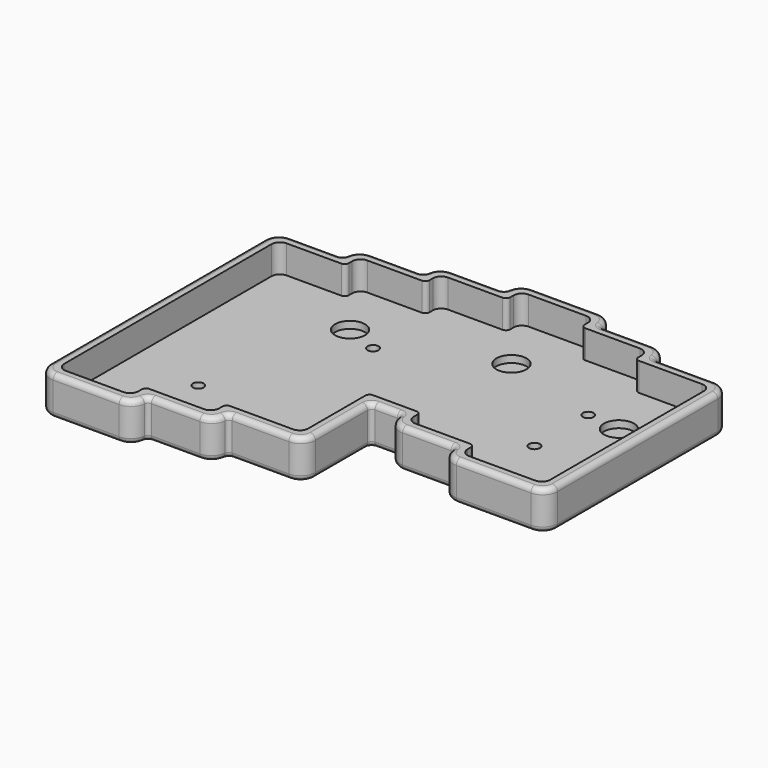
from build123d import *

# Parameters (mm, degrees)
PAD001_DEPTH    = 11
POCKET_DEPTH    = 8
POCKET001_DEPTH = 8
SKETCH003_R     = 1.55
POCKET002_DEPTH = 3
SKETCH005_R     = 3
POCKET004_DEPTH = 1.5
FILLET002_R     = 1.190625
FILLET003_R     = 2.38125
FILLET004_R     = 4.190625
FILLET005_R     = 1.5
SKETCH010_R     = 4.25
POCKET008_DEPTH = 2


with BuildPart() as part:
    # Sketch001 → Pad001 (new body)
    with BuildSketch(Plane.XY):
        Polygon((0, 0), (27.05, 0), (27.05, 4.7625), (46.1, 4.7625), (46.1, 9.525), (67.53125, 9.525), (67.53125, 33.3375), (76.2, 33.3375), (76.2, 28.575), (95.25, 28.575), (95.25, 23.8125), (124.68125, 23.8125), (124.68125, 88.9625), (103.25, 88.9625), (103.25, 93.725), (84.2, 93.725), (84.2, 98.4875), (57.15, 98.4875), (57.15, 93.725), (38.1, 93.725), (38.1, 88.9625), (19.05, 88.9625), (19.05, 84.2), (0, 84.2), align=None)
    extrude(amount=PAD001_DEPTH)

    # Sketch001 → Pocket (cut)
    with BuildSketch(Plane.XY):
        Polygon((0, 0), (27.05, 0), (27.05, 4.7625), (46.1, 4.7625), (46.1, 9.525), (67.53125, 9.525), (67.53125, 33.3375), (76.2, 33.3375), (76.2, 28.575), (95.25, 28.575), (95.25, 23.8125), (124.68125, 23.8125), (124.68125, 88.9625), (103.25, 88.9625), (103.25, 93.725), (84.2, 93.725), (84.2, 98.4875), (57.15, 98.4875), (57.15, 93.725), (38.1, 93.725), (38.1, 88.9625), (19.05, 88.9625), (19.05, 84.2), (0, 84.2), align=None)
    extrude(amount=-POCKET_DEPTH, mode=Mode.SUBTRACT)

    # Sketch002 (on Face26 of Pad001) → Pocket001 (cut)
    with BuildSketch(Plane.XY.offset(11)):
        Polygon((3, 3), (24.05, 3), (24.05, 7.7625), (43.1, 7.7625), (43.1, 12.525), (64.53125, 12.525), (64.53125, 36.3375), (79.2, 36.3375), (79.2, 31.575), (98.25, 31.575), (98.25, 26.8125), (121.68125, 26.8125), (121.68125, 85.9625), (100.25, 85.9625), (100.25, 90.725), (81.2, 90.725), (81.2, 95.4875), (60.15, 95.4875), (60.15, 90.725), (41.1, 90.725), (41.1, 85.9625), (22.05, 85.9625), (22.05, 81.2), (3, 81.2), align=None)
    extrude(amount=-POCKET001_DEPTH, mode=Mode.SUBTRACT)

    # Sketch003 (on Face51 of Pocket001) → Pocket002 (cut)
    with BuildSketch(Plane.XY.offset(3)):
        with Locations((23.05, 27.8125)):
            Circle(SKETCH003_R)
        with Locations((42.1, 65.9125)):
            Circle(SKETCH003_R)
        with Locations((99.25, 70.675)):
            Circle(SKETCH003_R)
        with Locations((99.25, 51.625)):
            Circle(SKETCH003_R)
    extrude(amount=-POCKET002_DEPTH, mode=Mode.SUBTRACT)

    # Sketch005 (on Face4 of Pocket002) → Pocket004 (cut)
    with BuildSketch(Plane(origin=(0, 0, 0), x_dir=(1, 0, 0), z_dir=(0, 0, -1))):
        with Locations((7, -7)):
            Circle(SKETCH005_R)
        with Locations((7, -77.2)):
            Circle(SKETCH005_R)
        with Locations((70.675, -91.4875)):
            Circle(SKETCH005_R)
        with Locations((117.68125, -81.9625)):
            Circle(SKETCH005_R)
        with Locations((117.68125, -30.8125)):
            Circle(SKETCH005_R)
        with Locations((60.53125, -16.525)):
            Circle(SKETCH005_R)
    extrude(amount=-POCKET004_DEPTH, mode=Mode.SUBTRACT)

    # Fillet002
    fillet002_edges = [part.edges().sort_by_distance(p)[0] for p in [
        (41.1, 85.9625, 7),
        (60.15, 90.725, 7),
        (81.2, 90.725, 7),
        (100.25, 85.9625, 7),
        (98.25, 31.575, 7),
        (79.2, 36.3375, 7),
        (64.53125, 36.3375, 7),
        (43.1, 12.525, 7),
        (24.05, 7.7625, 7),
        (27.05, 4.7625, 5.5),
        (46.1, 9.525, 5.5),
        (67.53125, 33.3375, 5.5),
        (76.2, 33.3375, 5.5),
        (95.25, 28.575, 5.5),
        (103.25, 88.9625, 5.5),
        (84.2, 93.725, 5.5),
        (57.15, 93.725, 5.5),
        (38.1, 88.9625, 5.5),
        (19.05, 84.2, 5.5),
        (22.05, 81.2, 7),
    ]]
    fillet(fillet002_edges, radius=FILLET002_R)

    # Fillet003
    fillet003_edges = [part.edges().sort_by_distance(p)[0] for p in [
        (3, 3, 7),
        (24.05, 3, 7),
        (3, 81.2, 7),
        (22.05, 85.9625, 7),
        (41.1, 90.725, 7),
        (60.15, 95.4875, 7),
        (81.2, 95.4875, 7),
        (100.25, 90.725, 7),
        (121.68125, 85.9625, 7),
        (121.68125, 26.8125, 7),
        (98.25, 26.8125, 7),
        (79.2, 31.575, 7),
        (64.53125, 12.525, 7),
        (43.1, 7.7625, 7),
    ]]
    fillet(fillet003_edges, radius=FILLET003_R)

    # Fillet004
    fillet004_edges = [part.edges().sort_by_distance(p)[0] for p in [
        (46.1, 4.7625, 5.5),
        (27.05, 0, 5.5),
        (0, 0, 5.5),
        (67.53125, 9.525, 5.5),
        (76.2, 28.575, 5.5),
        (95.25, 23.8125, 5.5),
        (124.68125, 23.8125, 5.5),
        (124.68125, 88.9625, 5.5),
        (103.25, 93.725, 5.5),
        (84.2, 98.4875, 5.5),
        (57.15, 98.4875, 5.5),
        (38.1, 93.725, 5.5),
        (19.05, 88.9625, 5.5),
        (0, 84.2, 5.5),
    ]]
    fillet(fillet004_edges, radius=FILLET004_R)

    # Fillet005
    fillet005_edges = [part.edges().sort_by_distance(p)[0] for p in [
        (67.53125, 22.93125, 11),
        (75.009375, 33.3375, 5.5),
        (13.542846, 0, 0),
    ]]
    fillet(fillet005_edges, radius=FILLET005_R)

    # Sketch010 (on Face128 of Fillet005) → Pocket008 (cut)
    with BuildSketch(Plane.XY.offset(3)):
        with Locations((18.2875, 7.75)):
            Circle(SKETCH010_R)
        with Locations((32.575, 69.6625)):
            Circle(SKETCH010_R)
        with Locations((70.675, 79.1875)):
            Circle(SKETCH010_R)
        with Locations((108.775, 69.6625)):
            Circle(SKETCH010_R)
        with Locations((108.775, 31.5625)):
            Circle(SKETCH010_R)
    extrude(amount=-POCKET008_DEPTH, mode=Mode.SUBTRACT)


solid = part.part
